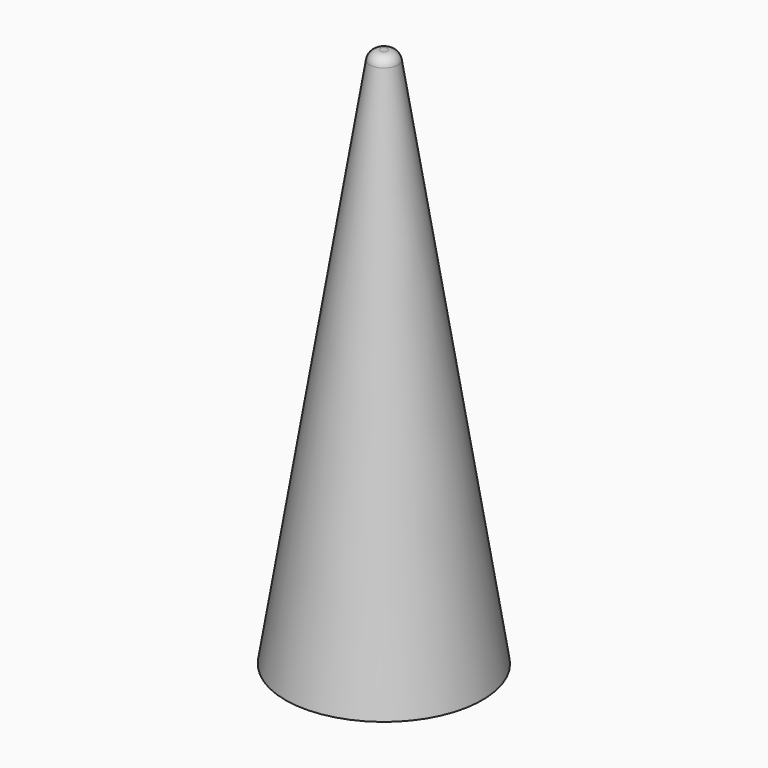
from build123d import *

# Parameters (mm, degrees)
F2_R    = 0.5
F3_SIZE = 0.5


with BuildPart() as f1:
    # F0 (on Front) → F1 (revolve)
    with BuildSketch(Plane.XZ):
        Polygon((-4.7, 0), (-3.5, 0), (0, 22), (0, 25.771429), (-0.6, 25.771429), align=None)
    revolve(axis=Axis((0, 0, 14.771429), (0, 0, 1)))

    # F2
    f2_edges = [f1.edges().sort_by_distance(p)[0] for p in [
        (0.6, 0, 25.771429),
    ]]
    fillet(f2_edges, radius=F2_R)

    # F3
    f3_edges = [f1.edges().sort_by_distance(p)[0] for p in [
        (3.5, 0, 0),
    ]]
    chamfer(f3_edges, length=F3_SIZE)


solid = f1.part
